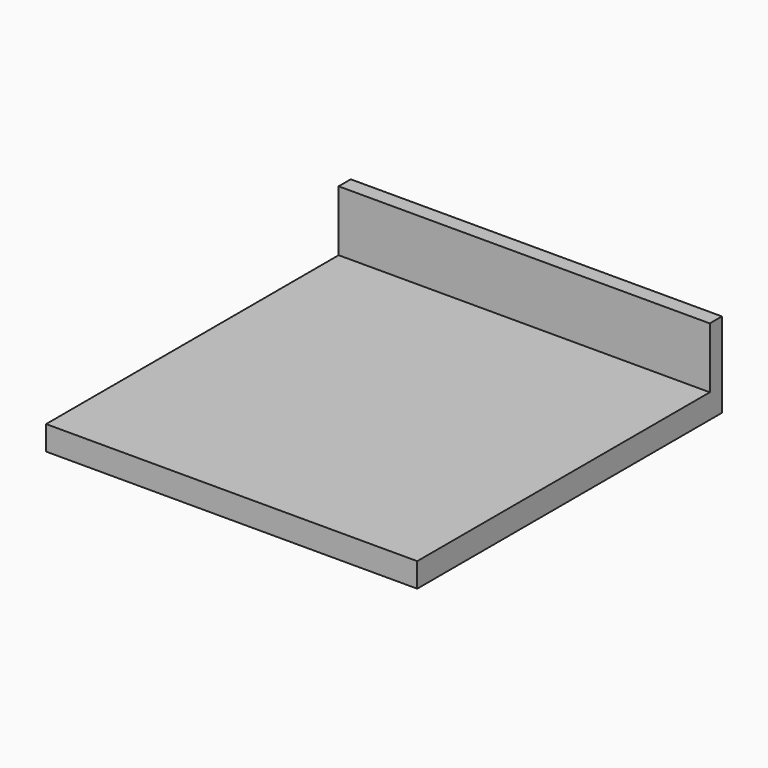
from build123d import *

# Parameters (mm, degrees)
F0_W     = 612
F0_H     = 40
F1_DEPTH = 628
F2_W     = 612
F2_H     = 100
F3_DEPTH = 25


with BuildPart() as f1:
    # F0 (on Front) → F1 (new body)
    with BuildSketch(Plane.XZ):
        Rectangle(F0_W, F0_H)
    extrude(amount=F1_DEPTH)

    # F2 (on face) → F3 (join)
    with BuildSketch(Plane(origin=(0, 0, 0), x_dir=(-1, 0, 0), z_dir=(0, 1, 0))):
        with Locations((0, 70)):
            Rectangle(F2_W, F2_H)
    extrude(amount=-F3_DEPTH)


solid = f1.part
